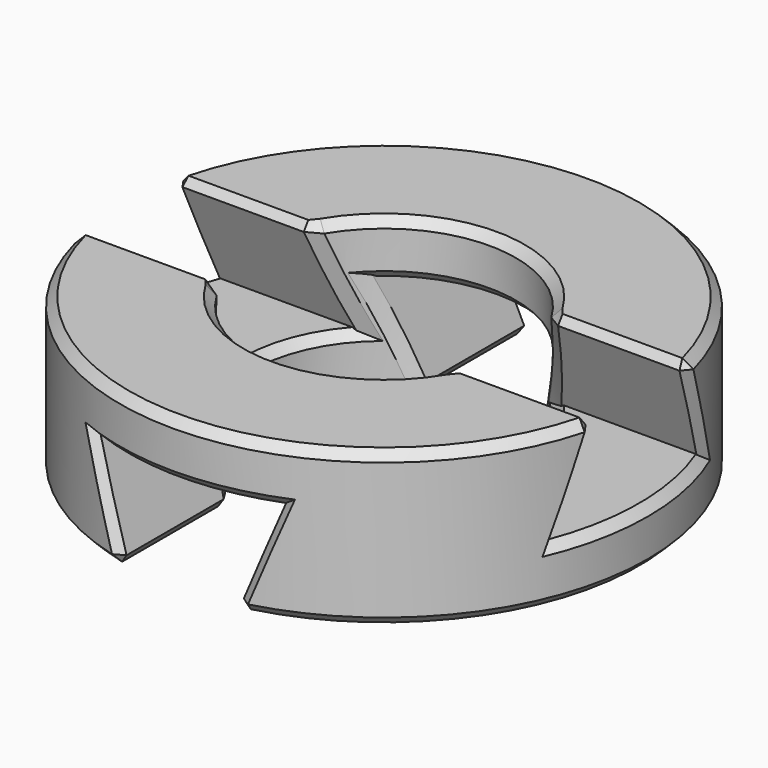
from build123d import *

# Parameters (mm, degrees)
SKETCH022_R          = 12
SKETCH022_R_2        = 6
PAD011_DEPTH         = 7
POCKET011_DEPTH      = 12.001
POCKET011_DEPTH_BACK = 12.001
POCKET012_DEPTH      = 12.001
POCKET012_DEPTH_BACK = 12.001
CHAMFER005_SIZE      = 0.4


with BuildPart() as part:
    # Sketch022 → Pad011 (new body)
    with BuildSketch(Plane.XY):
        Circle(SKETCH022_R)
        Circle(SKETCH022_R_2, mode=Mode.SUBTRACT)
    extrude(amount=PAD011_DEPTH)

    # Sketch023 → Pocket011 (cut, two sides)
    with BuildSketch(Plane.XZ) as pocket011_sk:
        Polygon((-2.525, 0), (2.525, 0), (4.2125, 4.5), (-4.2125, 4.5), align=None)
    extrude(amount=-POCKET011_DEPTH, mode=Mode.SUBTRACT)
    extrude(pocket011_sk.sketch, amount=POCKET011_DEPTH_BACK, mode=Mode.SUBTRACT)

    # Sketch024 → Pocket012 (cut, two sides)
    with BuildSketch(Plane.YZ) as pocket012_sk:
        Polygon((-2.525, 7), (2.525, 7), (4.2125, 2.5), (-4.2125, 2.5), align=None)
    extrude(amount=-POCKET012_DEPTH, mode=Mode.SUBTRACT)
    extrude(pocket012_sk.sketch, amount=POCKET012_DEPTH_BACK, mode=Mode.SUBTRACT)

    # Chamfer005
    chamfer005_edges = [part.edges().sort_by_distance(p)[0] for p in [
        (8.587085, 2.525, 7),
        (0, 6, 7),
        (-8.587085, 2.525, 7),
        (0, 12, 7),
        (0, -12, 7),
        (-8.587085, -2.525, 7),
        (0, -6, 7),
        (8.587085, -2.525, 7),
        (-2.525, 8.587085, 0),
        (-6, 0, 0),
        (-2.525, -8.587085, 0),
        (-12, 0, 0),
        (9.335416, -7.539894, 0),
        (2.525, -8.587085, 0),
        (5.057173, -3.228777, 0),
        (5.057173, 3.228777, 0),
        (2.525, 8.587085, 0),
        (9.335416, 7.539894, 0),
        (3.369954, 11.517092, 2.253212),
        (0, 12, 4.5),
        (-3.369954, 11.517092, 2.253212),
        (3.377498, 4.959083, 2.273329),
        (0, 6, 4.5),
        (-3.377498, 4.959083, 2.273329),
        (3.369954, -11.517092, 2.253212),
        (0, -12, 4.5),
        (-3.369954, -11.517092, 2.253212),
        (3.377498, -4.959083, 2.273329),
        (0, -6, 4.5),
        (-3.377498, -4.959083, 2.273329),
        (11.517092, -3.369954, 4.746788),
        (11.807536, -2.140582, 2.5),
        (11.517092, 3.369954, 4.746788),
        (11.807536, 2.140582, 2.5),
        (4.959083, 3.377498, 4.726671),
        (5.55137, 2.276465, 2.5),
        (5.55137, -2.276465, 2.5),
        (4.959083, -3.377498, 4.726671),
        (-4.959083, -3.377498, 4.726671),
        (-6, 0, 2.5),
        (-4.959083, 3.377498, 4.726671),
        (-11.517092, 3.369954, 4.746788),
        (-12, 0, 2.5),
        (-11.517092, -3.369954, 4.746788),
    ]]
    chamfer(chamfer005_edges, length=CHAMFER005_SIZE)


solid = part.part
